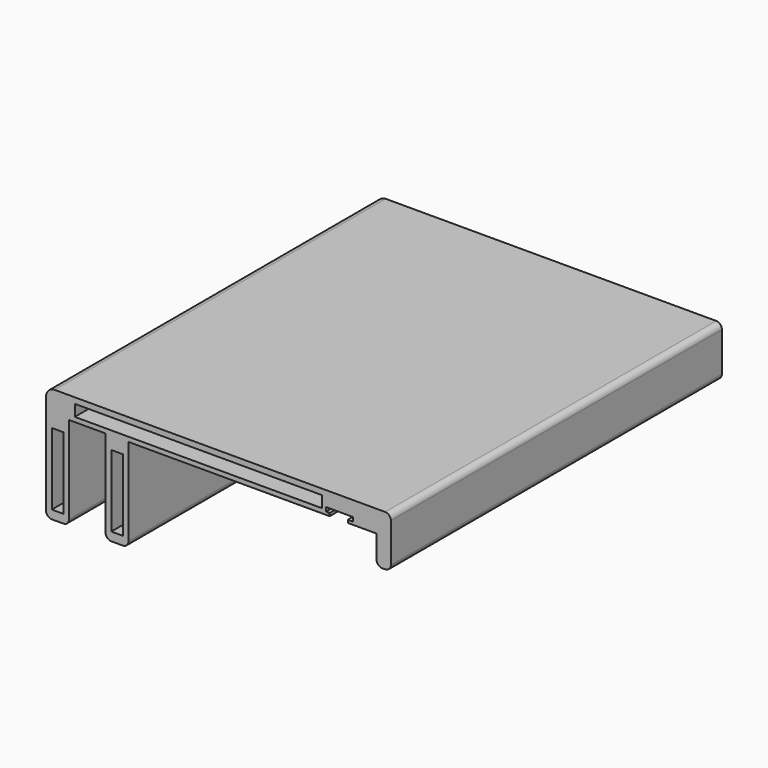
from build123d import *

# Parameters (mm, degrees)
F1_DEPTH = 144
F2_W     = 86
F2_H     = 4
F2_W_2   = 4
F2_H_2   = 25
F3_DEPTH = 15
F4_W     = 54.916096
F4_H     = 4
F4_W_2   = 4
F4_H_2   = 25
F5_DEPTH = 15


with BuildPart() as f1:
    # F0 (on Front) → F1 (new body)
    with BuildSketch(Plane.XZ):
        with BuildLine():
            Line((0, 37), (0, 2))
            ThreePointArc((0, 2), (0.585786, 0.585786), (2, 0))
            Line((2, 0), (6, 0))
            ThreePointArc((6, 0), (7.414214, 0.585786), (8, 2))
            Line((8, 2), (8, 32.406905))
            Line((8, 32.406905), (20.7, 32.406905))
            Line((20.7, 32.406905), (20.7, 2))
            ThreePointArc((20.7, 2), (21.285786, 0.585786), (22.7, 0))
            Line((22.7, 0), (26.7, 0))
            ThreePointArc((26.7, 0), (28.114214, 0.585786), (28.7, 2))
            Line((28.7, 2), (28.7, 32.406905))
            Line((28.7, 32.406905), (98.7, 32.406905))
            Line((98.7, 32.406905), (98.7, 33.406905))
            Line((98.7, 33.406905), (97.45, 33.406905))
            Line((97.45, 33.406905), (97.45, 34.806905))
            Line((97.45, 34.806905), (106.75, 34.806905))
            Line((106.75, 34.806905), (106.75, 33.406905))
            Line((106.75, 33.406905), (105, 33.406905))
            Line((105, 33.406905), (105, 32.406905))
            Line((105, 32.406905), (115, 32.406905))
            Line((115, 32.406905), (120, 32.406905))
            Line((120, 32.406905), (120, 38))
            ThreePointArc((120, 38), (119.414214, 39.414214), (118, 40))
            Line((118, 40), (3, 40))
            ThreePointArc((3, 40), (0.87868, 39.12132), (0, 37))
        make_face()
        with BuildLine():
            Line((120, 24.406905), (120, 32.406905))
            Line((120, 32.406905), (115, 32.406905))
            Line((115, 32.406905), (115, 24.406905))
            ThreePointArc((115, 24.406905), (115.585786, 22.992692), (117, 22.406905))
            Line((117, 22.406905), (118, 22.406905))
            ThreePointArc((118, 22.406905), (119.414214, 22.992692), (120, 24.406905))
        make_face()
    extrude(amount=F1_DEPTH)

    # F2 (on face) → F3 (cut)
    with BuildSketch(Plane.XZ.offset(144)):
        with Locations((53, 36)):
            Rectangle(F2_W, F2_H)
        with Locations((4, 15.5)):
            Rectangle(F2_W_2, F2_H_2)
        with Locations((24.7, 15.5)):
            Rectangle(F2_W_2, F2_H_2)
    extrude(amount=-F3_DEPTH, mode=Mode.SUBTRACT)

    # F4 (on Front) → F5 (cut)
    with BuildSketch(Plane.XZ):
        with Locations((37.458048, 36)):
            Rectangle(F4_W, F4_H)
        with Locations((4, 15.5)):
            Rectangle(F4_W_2, F4_H_2)
        with Locations((24.7, 15.5)):
            Rectangle(F4_W_2, F4_H_2)
    extrude(amount=F5_DEPTH, mode=Mode.SUBTRACT)


solid = f1.part
